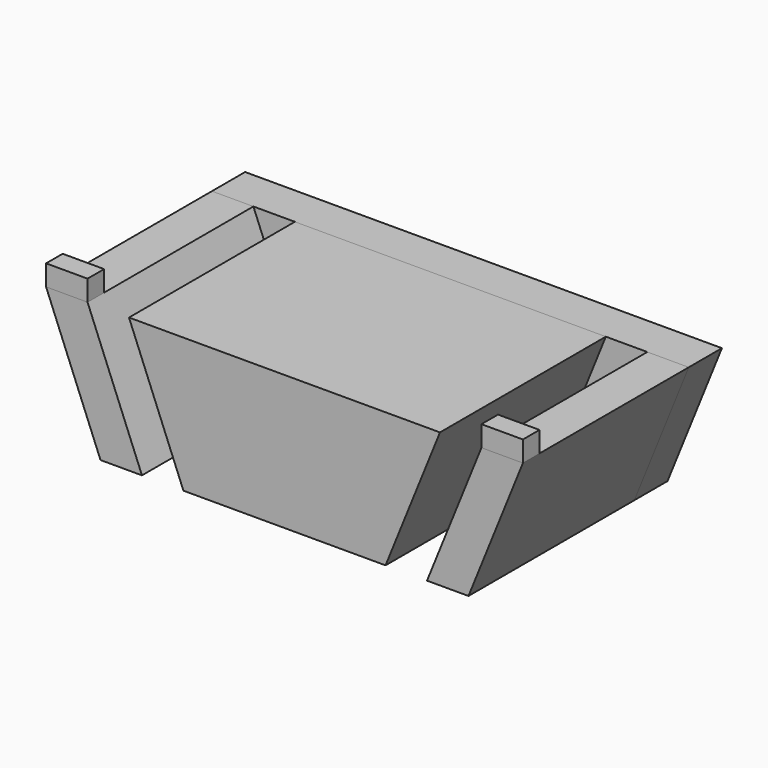
from build123d import *

# Parameters (mm, degrees)
F1_DEPTH = 10
F2_DEPTH = 2
F3_W     = 2
F3_H     = 1
F4_DEPTH = 1


with BuildPart() as f1:
    # F0 (on Front) → F1 (new body)
    with BuildSketch(Plane.XZ):
        Polygon((12.375, 24.080159), (-2.625, 24.080159), (0, 17.580159), (9.75, 17.580159), align=None)
        Polygon((-2, 17.580159), (-4.625, 24.080159), (-6.625, 24.080159), (-4, 17.580159), align=None)
        Polygon((16.375, 24.080159), (14.375, 24.080159), (11.75, 17.580159), (13.75, 17.580159), align=None)
    extrude(amount=F1_DEPTH)


with BuildPart() as f2:
    # F0 (on Front) → F2 (new body)
    with BuildSketch(Plane.XZ):
        Polygon((-2, 17.580159), (-4.625, 24.080159), (-6.625, 24.080159), (-4, 17.580159), align=None)
        Polygon((0, 17.580159), (-2.625, 24.080159), (-4.625, 24.080159), (-2, 17.580159), align=None)
        Polygon((12.375, 24.080159), (-2.625, 24.080159), (0, 17.580159), (9.75, 17.580159), align=None)
        Polygon((14.375, 24.080159), (12.375, 24.080159), (9.75, 17.580159), (11.75, 17.580159), align=None)
        Polygon((16.375, 24.080159), (14.375, 24.080159), (11.75, 17.580159), (13.75, 17.580159), align=None)
    extrude(amount=-F2_DEPTH)


with BuildPart() as f4:
    # F3 (on face) → F4 (new body)
    with BuildSketch(Plane.XY.offset(24.080159)):
        with Locations((-5.625, -9.5)):
            Rectangle(F3_W, F3_H)
        with Locations((15.375, -9.5)):
            Rectangle(F3_W, F3_H)
    extrude(amount=F4_DEPTH)


solid = Compound([f1.part, f2.part, f4.part])
